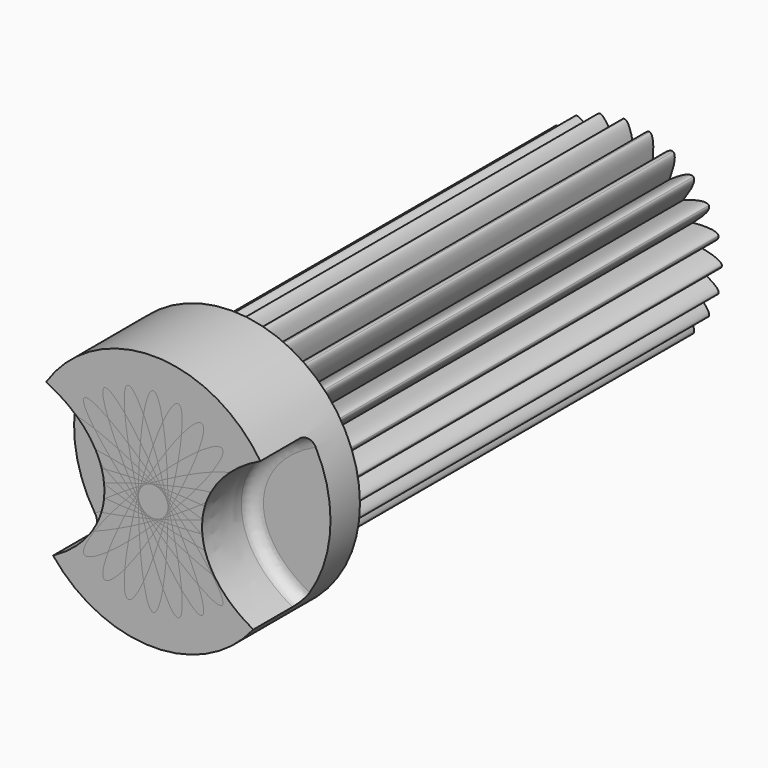
from build123d import *

# Parameters (mm, degrees)
F1_DEPTH = 96
F3_COUNT = 24
F4_R     = 20.9
F5_DEPTH = 16
F7_DEPTH = 10
F8_R     = 2


with BuildPart() as f1:
    # F0 (on Front) → F1 (new body)
    with BuildSketch(Plane.XZ):
        with BuildLine():
            add(Edge.make_bspline(
                [(0, 5.1), (4.156922, 5.1), (2.078461, 28.95), (0, 52.8), (-2.078461, 28.95), (-4.156922, 5.1), (0, 5.1)],
                knots=[0, 0, 0, 2.094395, 2.094395, 4.18879, 4.18879, 6.283185, 6.283185, 6.283185], degree=2, weights=[1, 0.5, 1, 0.5, 1, 0.5, 1]))
        make_face()
    extrude(amount=F1_DEPTH)

    # F3: F1 ×24 about axis
    f3_axis = Axis((0, -12.016542, 21), (0, -1, 0))


with BuildPart() as f1_1:
    add(f1.part)
    for i in range(1, F3_COUNT):
        add(f1.part.rotate(f3_axis, i * 360 / F3_COUNT))

    # F4 (on face) → F5 (join)
    with BuildSketch(Plane.XZ.offset(96)):
        with Locations((0, 21)):
            Circle(F4_R)
        with BuildLine():
            add(Edge.make_bspline(
                [(-1.920099, 19.526656), (-1.697391, 19.302609), (-1.473344, 19.079901)],
                knots=[4.730616, 4.730616, 4.730616, 4.769244, 4.769244, 4.769244], degree=2, weights=[0.808224, 0.803774, 0.799664]))
            add(Edge.make_bspline(
                [(-2.236003, 20.073817), (-2.078871, 19.799763), (-1.920099, 19.526656)],
                knots=[4.730616, 4.730616, 4.730616, 4.769244, 4.769244, 4.769244], degree=2, weights=[0.808224, 0.803774, 0.799664]))
            add(Edge.make_bspline(
                [(-2.399526, 20.684096), (-2.31868, 20.378712), (-2.236003, 20.073817)],
                knots=[4.730616, 4.730616, 4.730616, 4.769244, 4.769244, 4.769244], degree=2, weights=[0.808224, 0.803774, 0.799664]))
            add(Edge.make_bspline(
                [(-2.399526, 21.315904), (-2.400474, 21), (-2.399526, 20.684096)],
                knots=[4.730616, 4.730616, 4.730616, 4.769244, 4.769244, 4.769244], degree=2, weights=[0.808224, 0.803774, 0.799664]))
            add(Edge.make_bspline(
                [(-2.236003, 21.926183), (-2.31868, 21.621288), (-2.399526, 21.315904)],
                knots=[1.513941, 1.513941, 1.513941, 1.552569, 1.552569, 1.552569], degree=2, weights=[0.799664, 0.803774, 0.808224]))
            add(Edge.make_bspline(
                [(-1.920099, 22.473344), (-2.078871, 22.200237), (-2.236003, 21.926183)],
                knots=[1.513941, 1.513941, 1.513941, 1.552569, 1.552569, 1.552569], degree=2, weights=[0.799664, 0.803774, 0.808224]))
            add(Edge.make_bspline(
                [(-1.473344, 22.920099), (-1.697391, 22.697391), (-1.920099, 22.473344)],
                knots=[1.513941, 1.513941, 1.513941, 1.552569, 1.552569, 1.552569], degree=2, weights=[0.799664, 0.803774, 0.808224]))
            add(Edge.make_bspline(
                [(-0.926183, 23.236003), (-1.200237, 23.078871), (-1.473344, 22.920099)],
                knots=[1.513941, 1.513941, 1.513941, 1.552569, 1.552569, 1.552569], degree=2, weights=[0.799664, 0.803774, 0.808224]))
            add(Edge.make_bspline(
                [(-0.315904, 23.399526), (-0.621288, 23.31868), (-0.926183, 23.236003)],
                knots=[1.513941, 1.513941, 1.513941, 1.552569, 1.552569, 1.552569], degree=2, weights=[0.799664, 0.803774, 0.808224]))
            add(Edge.make_bspline(
                [(0.315904, 23.399526), (0, 23.400474), (-0.315904, 23.399526)],
                knots=[1.513941, 1.513941, 1.513941, 1.552569, 1.552569, 1.552569], degree=2, weights=[0.799664, 0.803774, 0.808224]))
            add(Edge.make_bspline(
                [(0.926183, 23.236003), (0.621288, 23.31868), (0.315904, 23.399526)],
                knots=[1.513941, 1.513941, 1.513941, 1.552569, 1.552569, 1.552569], degree=2, weights=[0.799664, 0.803774, 0.808224]))
            add(Edge.make_bspline(
                [(1.473344, 22.920099), (1.200237, 23.078871), (0.926183, 23.236003)],
                knots=[1.513941, 1.513941, 1.513941, 1.552569, 1.552569, 1.552569], degree=2, weights=[0.799664, 0.803774, 0.808224]))
            add(Edge.make_bspline(
                [(1.920099, 22.473344), (1.697391, 22.697391), (1.473344, 22.920099)],
                knots=[1.513941, 1.513941, 1.513941, 1.552569, 1.552569, 1.552569], degree=2, weights=[0.799664, 0.803774, 0.808224]))
            add(Edge.make_bspline(
                [(2.236003, 21.926183), (2.078871, 22.200237), (1.920099, 22.473344)],
                knots=[1.513941, 1.513941, 1.513941, 1.552569, 1.552569, 1.552569], degree=2, weights=[0.799664, 0.803774, 0.808224]))
            add(Edge.make_bspline(
                [(2.399526, 21.315904), (2.31868, 21.621288), (2.236003, 21.926183)],
                knots=[1.513941, 1.513941, 1.513941, 1.552569, 1.552569, 1.552569], degree=2, weights=[0.799664, 0.803774, 0.808224]))
            add(Edge.make_bspline(
                [(2.399526, 20.684096), (2.400474, 21), (2.399526, 21.315904)],
                knots=[1.513941, 1.513941, 1.513941, 1.552569, 1.552569, 1.552569], degree=2, weights=[0.799664, 0.803774, 0.808224]))
            add(Edge.make_bspline(
                [(2.236003, 20.073817), (2.31868, 20.378712), (2.399526, 20.684096)],
                knots=[4.730616, 4.730616, 4.730616, 4.769244, 4.769244, 4.769244], degree=2, weights=[0.808224, 0.803774, 0.799664]))
            add(Edge.make_bspline(
                [(1.920099, 19.526656), (2.078871, 19.799763), (2.236003, 20.073817)],
                knots=[4.730616, 4.730616, 4.730616, 4.769244, 4.769244, 4.769244], degree=2, weights=[0.808224, 0.803774, 0.799664]))
            add(Edge.make_bspline(
                [(1.473344, 19.079901), (1.697391, 19.302609), (1.920099, 19.526656)],
                knots=[4.730616, 4.730616, 4.730616, 4.769244, 4.769244, 4.769244], degree=2, weights=[0.808224, 0.803774, 0.799664]))
            add(Edge.make_bspline(
                [(0.926183, 18.763997), (1.200237, 18.921129), (1.473344, 19.079901)],
                knots=[4.730616, 4.730616, 4.730616, 4.769244, 4.769244, 4.769244], degree=2, weights=[0.808224, 0.803774, 0.799664]))
            add(Edge.make_bspline(
                [(0.315904, 18.600474), (0.621288, 18.68132), (0.926183, 18.763997)],
                knots=[4.730616, 4.730616, 4.730616, 4.769244, 4.769244, 4.769244], degree=2, weights=[0.808224, 0.803774, 0.799664]))
            add(Edge.make_bspline(
                [(-0.315904, 18.600474), (0, 18.599526), (0.315904, 18.600474)],
                knots=[4.730616, 4.730616, 4.730616, 4.769244, 4.769244, 4.769244], degree=2, weights=[0.808224, 0.803774, 0.799664]))
            add(Edge.make_bspline(
                [(-0.926183, 18.763997), (-0.621288, 18.68132), (-0.315904, 18.600474)],
                knots=[4.730616, 4.730616, 4.730616, 4.769244, 4.769244, 4.769244], degree=2, weights=[0.808224, 0.803774, 0.799664]))
            add(Edge.make_bspline(
                [(-1.473344, 19.079901), (-1.200237, 18.921129), (-0.926183, 18.763997)],
                knots=[4.730616, 4.730616, 4.730616, 4.769244, 4.769244, 4.769244], degree=2, weights=[0.808224, 0.803774, 0.799664]))
        make_face(mode=Mode.SUBTRACT)
    extrude(amount=-F5_DEPTH)

    # F6 (on face) → F7 (cut)
    with BuildSketch(Plane.XZ.offset(96)):
        with BuildLine():
            add(Edge.make_bspline(
                [(-28.960172, 34.927619), (-65.333239, 34.927619), (-47.146706, 12.427619), (-28.960172, -10.072381), (-10.773639, 12.427619), (7.412895, 34.927619), (-28.960172, 34.927619)],
                knots=[4.712389, 4.712389, 4.712389, 6.806784, 6.806784, 8.901179, 8.901179, 10.995574, 10.995574, 10.995574], degree=2, weights=[1, 0.5, 1, 0.5, 1, 0.5, 1]))
        make_face()
        with BuildLine():
            add(Edge.make_bspline(
                [(28.960172, 34.927619), (-7.412895, 34.927619), (10.773639, 12.427619), (28.960172, -10.072381), (47.146706, 12.427619), (65.333239, 34.927619), (28.960172, 34.927619)],
                knots=[4.712389, 4.712389, 4.712389, 6.806784, 6.806784, 8.901179, 8.901179, 10.995574, 10.995574, 10.995574], degree=2, weights=[1, 0.5, 1, 0.5, 1, 0.5, 1]))
        make_face()
    extrude(amount=-F7_DEPTH, mode=Mode.SUBTRACT)

    # F8
    f8_edges = [f1_1.edges().sort_by_distance(p)[0] for p in [
        (7.97919, -86, 20.565854),
        (-7.97919, -86, 20.565854),
    ]]
    fillet(f8_edges, radius=F8_R)


solid = f1_1.part
